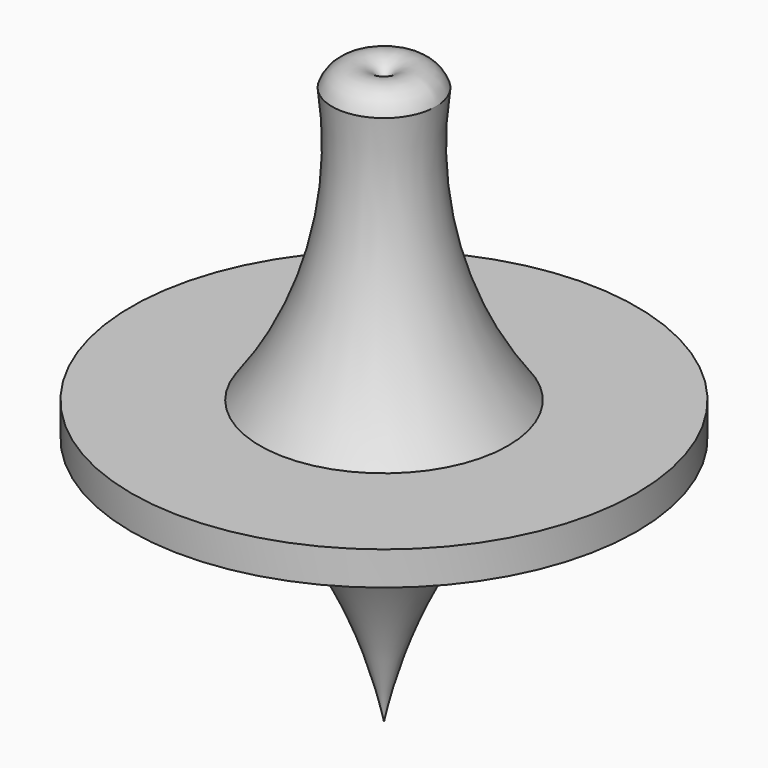
from build123d import *

# Parameters (mm, degrees)
F0_R      = 19.05
F1_DEPTH  = 1.27
F1_FACE_R = 19.05
F2_DEPTH  = 1.27


with BuildPart() as f1:
    # F0 (on Top) → F1 (new body)
    with BuildSketch(Plane.XY):
        Circle(F0_R)
    extrude(amount=F1_DEPTH)

    # F1_face (on face) → F2 (join)
    with BuildSketch(Plane(origin=(0, 0, 0), x_dir=(1, 0, 0), z_dir=(0, 0, -1))):
        Circle(F1_FACE_R)
    extrude(amount=F2_DEPTH)

    # F3 (on Front) → F4 (revolve)
    with BuildSketch(Plane.XZ):
        with BuildLine():
            ThreePointArc((0, -20.097299), (4.071576, -9.150127), (11.330604, 0))
            Line((11.330604, 0), (0, 0))
            Line((0, 0), (0, -20.097299))
        make_face()
    revolve(axis=Axis((0, 0, -10.048649), (0, 0, 1)))

    # F5 (on Front) → F6 (revolve)
    with BuildSketch(Plane.XZ):
        with BuildLine():
            ThreePointArc((10.37341, 0), (4.791772, 10.316352), (3.912366, 22.012865))
            ThreePointArc((3.912366, 22.012865), (1.956183, 23.496166), (0, 22.012865))
            Line((0, 22.012865), (0, 0))
            Line((0, 0), (10.37341, 0))
        make_face()
    revolve(axis=Axis((0, 0, 11.006433), (0, 0, -1)))


solid = f1.part
